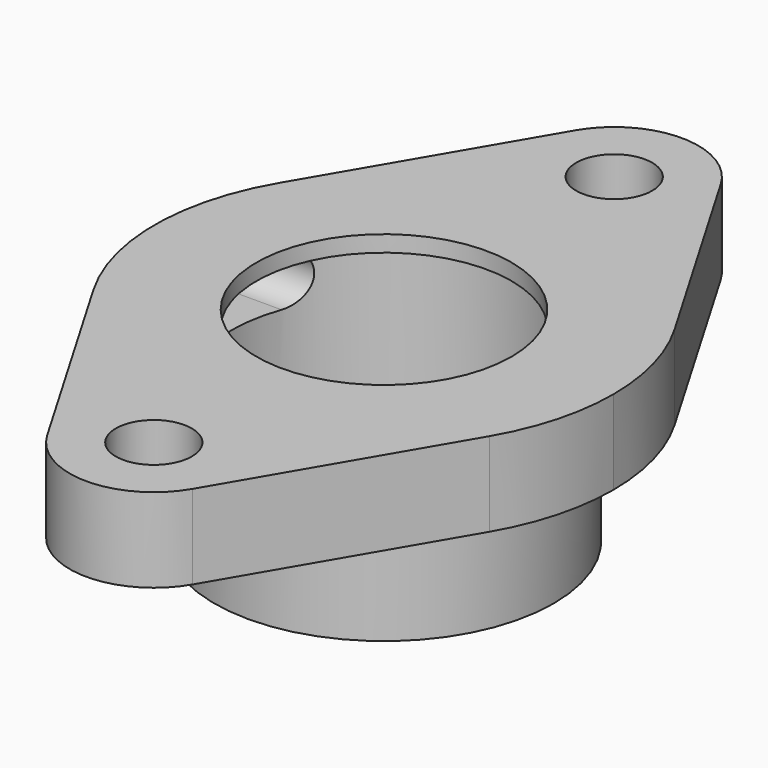
from build123d import *

# Parameters (mm, degrees)
F0_R          = 23.876
F0_R_2        = 7.112
F1_DEPTH      = 15.748
F2_R          = 31.75
F2_R_2        = 23.876
F3_DEPTH      = 22.352
F5_DEPTH      = 42.927
F6_R          = 28.575
F7_DEPTH      = 12.7
F7_DEPTH_BACK = 20.32


with BuildPart() as f1:
    # F0 (on Top) → F1 (new body)
    with BuildSketch(Plane.XY):
        with BuildLine():
            ThreePointArc((37.057366, -21.665481), (41.432873, -11.223123), (42.926, 0))
            ThreePointArc((42.926, 0), (41.432873, 11.223123), (37.057366, 21.665481))
            ThreePointArc((37.057366, 21.665481), (0, 42.926), (-37.057366, 21.665481))
            ThreePointArc((-37.057366, 21.665481), (-42.926, 0), (-37.057366, -21.665481))
            ThreePointArc((-37.057366, -21.665481), (0, -42.926), (37.057366, -21.665481))
        make_face()
        Circle(F0_R, mode=Mode.SUBTRACT)
        with BuildLine():
            ThreePointArc((-37.057366, 21.665481), (0, 42.926), (37.057366, 21.665481))
            Line((37.057366, 21.665481), (13.59501, 61.796283))
            ThreePointArc((13.59501, 61.796283), (0, 69.596), (-13.59501, 61.796283))
            Line((-13.59501, 61.796283), (-37.057366, 21.665481))
        make_face()
        with Locations((0, 53.848)):
            Circle(F0_R_2, mode=Mode.SUBTRACT)
        with BuildLine():
            Line((13.59501, -61.796283), (37.057366, -21.665481))
            ThreePointArc((37.057366, -21.665481), (0, -42.926), (-37.057366, -21.665481))
            Line((-37.057366, -21.665481), (-13.59501, -61.796283))
            ThreePointArc((-13.59501, -61.796283), (0, -69.596), (13.59501, -61.796283))
        make_face()
        with Locations((0, -53.848)):
            Circle(F0_R_2, mode=Mode.SUBTRACT)
    extrude(amount=F1_DEPTH)

    # F2 (on Top) → F3 (join)
    with BuildSketch(Plane.XY):
        Circle(F2_R)
        Circle(F2_R_2, mode=Mode.SUBTRACT)
    extrude(amount=-F3_DEPTH)

    # F4 (on Right) → F5 (cut, through all)
    with BuildSketch(Plane.YZ):
        with BuildLine():
            ThreePointArc((9.652, 3.048), (14.478, 7.874), (9.652, 12.7))
            Line((9.652, 12.7), (-9.652, 12.7))
            ThreePointArc((-9.652, 12.7), (-14.478, 7.874), (-9.652, 3.048))
            Line((-9.652, 3.048), (9.652, 3.048))
        make_face()
    extrude(amount=-F5_DEPTH, mode=Mode.SUBTRACT)

    # F6 (on Top) → F7 (cut, two sides)
    with BuildSketch(Plane.XY) as f7_sk:
        Circle(F6_R)
    extrude(amount=F7_DEPTH, mode=Mode.SUBTRACT)
    extrude(f7_sk.sketch, amount=-F7_DEPTH_BACK, mode=Mode.SUBTRACT)


solid = f1.part
